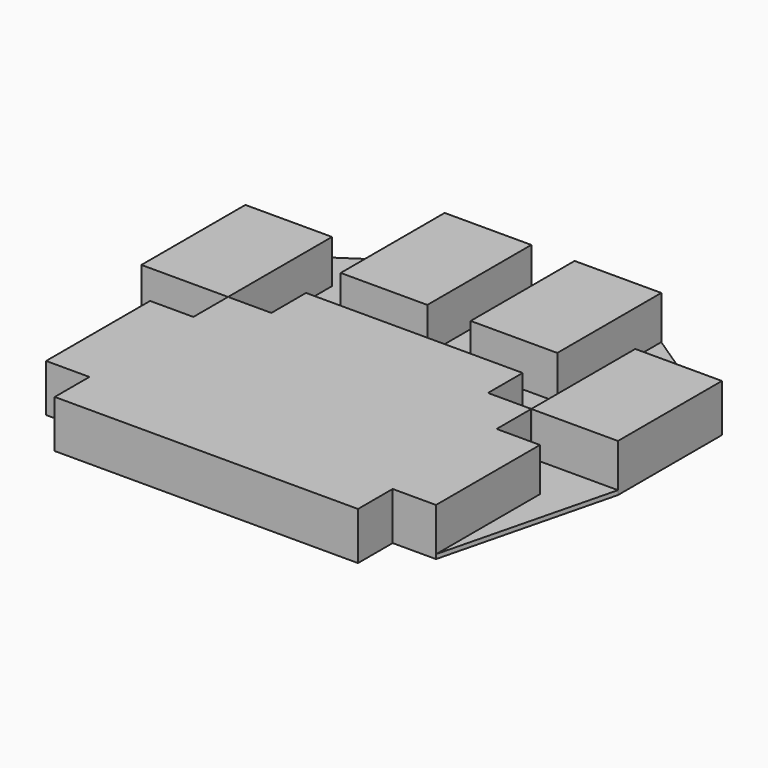
from build123d import *

# Parameters (mm, degrees)
F1_DEPTH = 1
F2_DEPTH = 10


with BuildPart() as f1:
    # F0 (on Top) → F1 (new body)
    with BuildSketch(Plane.XY):
        with BuildLine():
            Line((0, 10), (0, 50))
            Line((0, 50), (-5, 50))
            Line((-5, 50), (-5, 20))
            Line((-5, 20), (-15, 20))
            Line((-15, 20), (-25, 20))
            Line((-25, 20), (-25, 50))
            Line((-25, 50), (-55, 30))
            Line((-55, 30), (-35, 30))
            Line((-35, 30), (-35, 10))
            Line((-35, 10), (-35, 0.120711))
            ThreePointArc((-35, 0.120711), (-34.964645, 0.035355), (-34.879289, 0))
            Line((-34.879289, 0), (-25, 0))
            Line((-25, 0), (-25, 10))
            Line((-25, 10), (0, 10))
        make_face()
        Polygon((-5, 20), (-5, 50), (-25, 50), (-25, 20), (-15, 20), align=None)
        with BuildLine():
            Line((-35.120711, 0), (-55, 0))
            Line((-55, 0), (-45, -40))
            Line((-45, -40), (-45, -10))
            Line((-45, -10), (-35, -10))
            Line((-35, -10), (-35, -0.120711))
            ThreePointArc((-35, -0.120711), (-35.035355, -0.035355), (-35.120711, 0))
        make_face()
        with BuildLine():
            Line((0, -50), (0, 10))
            Line((0, 10), (-25, 10))
            Line((-25, 10), (-25, 0))
            Line((-25, 0), (-34.879289, 0))
            ThreePointArc((-34.879289, 0), (-34.964645, 0.035355), (-35, 0.120711))
            Line((-35, 0.120711), (-35, 10))
            Line((-35, 10), (-35, 30))
            Line((-35, 30), (-55, 30))
            Line((-55, 30), (-55, 0))
            Line((-55, 0), (-35.120711, 0))
            ThreePointArc((-35.120711, 0), (-35.035355, -0.035355), (-35, -0.120711))
            Line((-35, -0.120711), (-35, -10))
            Line((-35, -10), (-45, -10))
            Line((-45, -10), (-45, -40))
            Line((-45, -40), (-35, -40))
            Line((-35, -40), (-35, -50))
            Line((-35, -50), (0, -50))
        make_face()
    extrude(amount=-F1_DEPTH)

    # F0 (on Top) → F2 (join)
    with BuildSketch(Plane.XY):
        Polygon((-5, 20), (-5, 50), (-25, 50), (-25, 20), (-15, 20), align=None)
        with BuildLine():
            Line((0, -50), (0, 10))
            Line((0, 10), (-25, 10))
            Line((-25, 10), (-25, 0))
            Line((-25, 0), (-34.879289, 0))
            ThreePointArc((-34.879289, 0), (-34.964645, 0.035355), (-35, 0.120711))
            Line((-35, 0.120711), (-35, 10))
            Line((-35, 10), (-35, 30))
            Line((-35, 30), (-55, 30))
            Line((-55, 30), (-55, 0))
            Line((-55, 0), (-35.120711, 0))
            ThreePointArc((-35.120711, 0), (-35.035355, -0.035355), (-35, -0.120711))
            Line((-35, -0.120711), (-35, -10))
            Line((-35, -10), (-45, -10))
            Line((-45, -10), (-45, -40))
            Line((-45, -40), (-35, -40))
            Line((-35, -40), (-35, -50))
            Line((-35, -50), (0, -50))
        make_face()
    extrude(amount=F2_DEPTH)

    # F3: F1 across plane


with BuildPart() as f1_1:
    add(f1.part)
    add(f1.part.mirror(Plane.YZ))


solid = f1_1.part
